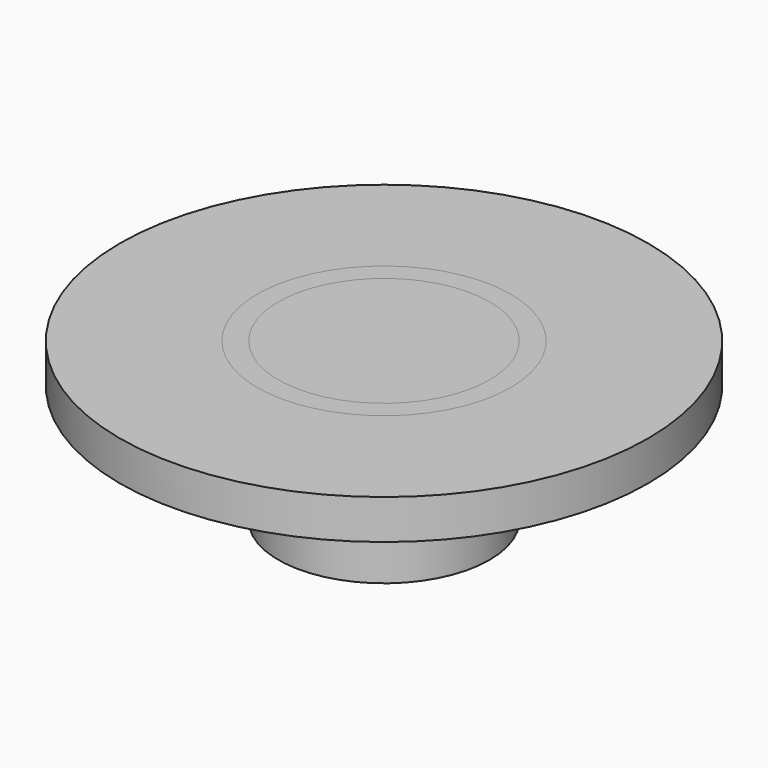
from build123d import *

# Parameters (mm, degrees)
F0_R     = 4
F1_DEPTH = 6
F0_R_2   = 10
F0_R_3   = 4.796084
F2_DEPTH = 1.5
F4_DEPTH = 2.5


with BuildPart() as f1:
    # F0 (on Top) → F1 (new body)
    with BuildSketch(Plane.XY):
        Circle(F0_R)
    extrude(amount=F1_DEPTH)


with BuildPart() as f2:
    # F0 (on Top) → F2 (new body)
    with BuildSketch(Plane.XY):
        Circle(F0_R_2)
        Circle(F0_R_3, mode=Mode.SUBTRACT)
    extrude(amount=F2_DEPTH)


with BuildPart() as f2_1:
    # F3: moved
    add(f2.part.moved(Location((0, 0, 4.5))))


with BuildPart() as f4:
    # F0 (on Top) → F4 (new body)
    with BuildSketch(Plane.XY):
        Circle(F0_R_3)
        Circle(F0_R, mode=Mode.SUBTRACT)
    extrude(amount=F4_DEPTH)


with BuildPart() as f4_1:
    # F5: moved
    add(f4.part.moved(Location((0, 0, 3.5))))


solid = Compound([f1.part, f2_1.part, f4_1.part])
